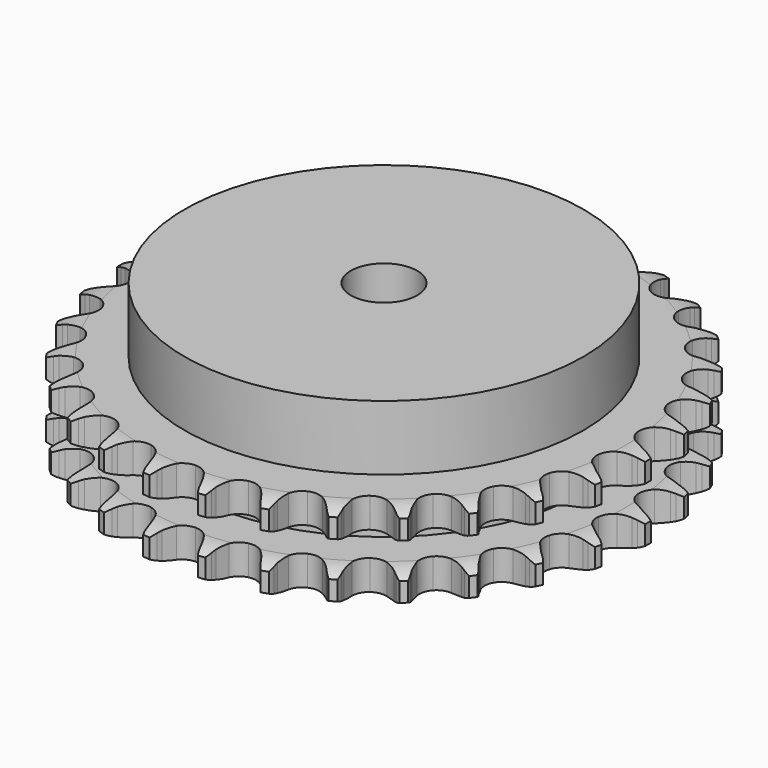
from build123d import *

# Parameters (mm, degrees)
PAD_DEPTH         = 25.5
SKETCH001_R       = 60
PAD001_DEPTH      = 45
SKETCH002_R       = 10
POCKET_DEPTH      = 0.001
POCKET_DEPTH_BACK = 45.001


with BuildPart() as part:
    # Sprocket → Pad (new body)
    with BuildSketch(Plane.XY):
        with BuildLine():
            ThreePointArc((-8.457976, 80.472268), (-7.258124, 79.052161), (-6.405169, 77.400249))
            Line((-6.405169, 77.400249), (-5.909738, 76.100573))
            ThreePointArc((-5.909738, 76.100573), (-5.123685, 74.407167), (-4.107782, 72.840819))
            ThreePointArc((-4.107782, 72.840819), (-2.295018, 71.33316), (0, 70.792755))
            ThreePointArc((0, 70.792755), (2.295018, 71.33316), (4.107782, 72.840819))
            ThreePointArc((4.107782, 72.840819), (5.123685, 74.407167), (5.909738, 76.100573))
            Line((5.909738, 76.100573), (6.405169, 77.400249))
            ThreePointArc((6.405169, 77.400249), (7.258124, 79.052161), (8.457976, 80.472268))
            ThreePointArc((8.457976, 80.472268), (9.336351, 78.833731), (9.827215, 77.040577))
            Line((9.827215, 77.040577), (10.041603, 75.666296))
            ThreePointArc((10.041603, 75.666296), (10.4584, 73.846465), (11.126441, 72.103128))
            ThreePointArc((11.126441, 72.103128), (12.586131, 70.25152), (14.718641, 69.245763))
            ThreePointArc((14.718641, 69.245763), (17.075865, 69.297198), (19.162475, 70.395017))
            Line((19.162475, 70.395017), (21.602794, 73.208889))
            ThreePointArc((21.602794, 73.208889), (21.964891, 73.802919), (22.357618, 74.377158))
            ThreePointArc((22.357618, 74.377158), (23.535385, 75.815633), (25.004274, 76.955243))
            ThreePointArc((25.004274, 76.955243), (25.522784, 75.169888), (25.630104, 73.313863))
            Line((25.630104, 73.313863), (25.554078, 71.925039))
            ThreePointArc((25.554078, 71.925039), (25.583402, 70.058319), (25.874385, 68.214185))
            ThreePointArc((25.874385, 68.214185), (26.917206, 66.099552), (28.794007, 64.672399))
            ThreePointArc((28.794007, 64.672399), (31.110414, 64.232616), (33.379676, 64.872614))
            Line((33.379676, 64.872614), (36.351705, 67.117626))
            ThreePointArc((36.351705, 67.117626), (36.829395, 67.62339), (37.332931, 68.103429))
            ThreePointArc((37.332931, 68.103429), (38.784037, 69.265598), (40.457766, 70.074906))
            ThreePointArc((40.457766, 70.074906), (40.593748, 68.22076), (40.312834, 66.382981))
            Line((40.312834, 66.382981), (39.949716, 65.040313))
            ThreePointArc((39.949716, 65.040313), (39.590287, 63.208289), (39.491494, 61.343954))
            ThreePointArc((39.491494, 61.343954), (40.07187, 59.058716), (41.610937, 57.272542))
            ThreePointArc((41.610937, 57.272542), (43.785288, 56.36076), (46.138024, 56.514967))
            Line((46.138024, 56.514967), (49.511872, 58.093))
            ThreePointArc((49.511872, 58.093), (50.084278, 58.488395), (50.676616, 58.853253))
            ThreePointArc((50.676616, 58.853253), (52.33764, 59.688323), (54.143059, 60.131958))
            ThreePointArc((54.143059, 60.131958), (53.890571, 58.290058), (53.233699, 56.550844))
            Line((53.233699, 56.550844), (52.59936, 55.313013))
            ThreePointArc((52.59936, 55.313013), (51.866887, 53.595752), (51.382635, 51.792698))
            ThreePointArc((51.382635, 51.792698), (51.475201, 49.436732), (52.609269, 47.369599))
            ThreePointArc((52.609269, 47.369599), (54.546536, 46.025669), (56.87992, 45.687345))
            Line((56.87992, 45.687345), (60.508133, 46.529431))
            ThreePointArc((60.508133, 46.529431), (61.150237, 46.797177), (61.805489, 47.030907))
            ThreePointArc((61.805489, 47.030907), (63.603838, 47.502383), (65.46204, 47.560956))
            ThreePointArc((65.46204, 47.560956), (64.832118, 45.811801), (63.827997, 44.247164))
            Line((63.827997, 44.247164), (62.95016, 43.168269))
            ThreePointArc((62.95016, 43.168269), (61.876654, 41.640824), (61.028109, 39.977853))
            ThreePointArc((61.028109, 39.977853), (60.628819, 37.654124), (61.308324, 35.396377))
            ThreePointArc((61.308324, 35.396377), (62.923838, 33.679036), (65.135891, 32.862966))
            Line((65.135891, 32.862966), (68.859898, 32.932303))
            ThreePointArc((68.859898, 32.932303), (69.543638, 33.060697), (70.233166, 33.153085))
            ThreePointArc((70.233166, 33.153085), (72.090242, 33.24036), (73.920016, 32.911312))
            ThreePointArc((73.920016, 32.911312), (72.940189, 31.331348), (71.632705, 30.00967))
            Line((71.632705, 30.00967), (70.549736, 29.136865))
            ThreePointArc((70.549736, 29.136865), (69.182115, 27.865993), (68.006361, 26.415784))
            ThreePointArc((68.006361, 26.415784), (67.132667, 24.225851), (67.327911, 21.876164))
            ThreePointArc((67.327911, 21.876164), (68.551066, 19.860466), (70.54511, 18.602318))
            Line((70.54511, 18.602318), (74.202155, 17.895876))
            ThreePointArc((74.202155, 17.895876), (74.897648, 17.879306), (75.591317, 17.826314))
            ThreePointArc((75.591317, 17.826314), (77.425957, 17.525575), (79.147333, 16.823285))
            ThreePointArc((79.147333, 16.823285), (77.860425, 15.481565), (76.30672, 14.46061))
            Line((76.30672, 14.46061), (75.06595, 13.832039))
            ThreePointArc((75.06595, 13.832039), (73.463985, 12.873283), (72.012409, 11.699218))
            ThreePointArc((72.012409, 11.699218), (70.702494, 9.738792), (70.404944, 7.399858))
            ThreePointArc((70.404944, 7.399858), (71.182284, 5.173899), (72.87117, 3.52866))
            Line((72.87117, 3.52866), (76.301421, 2.077313))
            ThreePointArc((76.301421, 2.077313), (76.978271, 1.916504), (77.645765, 1.720448))
            ThreePointArc((77.645765, 1.720448), (79.377786, 1.044837), (80.915531, 0))
            ThreePointArc((80.915531, 0), (79.377786, -1.044837), (77.645765, -1.720448))
            Line((77.645765, -1.720448), (76.301421, -2.077313))
            ThreePointArc((76.301421, -2.077313), (74.535127, -2.68205), (72.87117, -3.52866))
            ThreePointArc((72.87117, -3.52866), (71.182284, -5.173899), (70.404944, -7.399858))
            ThreePointArc((70.404944, -7.399858), (70.702494, -9.738792), (72.012409, -11.699218))
            Line((72.012409, -11.699218), (75.06595, -13.832039))
            ThreePointArc((75.06595, -13.832039), (75.694575, -14.130059), (76.30672, -14.46061))
            ThreePointArc((76.30672, -14.46061), (77.860425, -15.481565), (79.147333, -16.823285))
            ThreePointArc((79.147333, -16.823285), (77.425957, -17.525575), (75.591317, -17.826314))
            Line((75.591317, -17.826314), (74.202155, -17.895876))
            ThreePointArc((74.202155, -17.895876), (72.348726, -18.120165), (70.54511, -18.602318))
            ThreePointArc((70.54511, -18.602318), (68.551066, -19.860466), (67.327911, -21.876164))
            ThreePointArc((67.327911, -21.876164), (67.132667, -24.225851), (68.006361, -26.415784))
            Line((68.006361, -26.415784), (70.549736, -29.136865))
            ThreePointArc((70.549736, -29.136865), (71.102662, -29.55907), (71.632705, -30.00967))
            ThreePointArc((71.632705, -30.00967), (72.940189, -31.331348), (73.920016, -32.911312))
            ThreePointArc((73.920016, -32.911312), (72.090242, -33.24036), (70.233166, -33.153085))
            Line((70.233166, -33.153085), (68.859898, -32.932303))
            ThreePointArc((68.859898, -32.932303), (67.000339, -32.766342), (65.135891, -32.862966))
            ThreePointArc((65.135891, -32.862966), (62.923838, -33.679036), (61.308324, -35.396377))
            ThreePointArc((61.308324, -35.396377), (60.628819, -37.654124), (61.028109, -39.977853))
            Line((61.028109, -39.977853), (62.95016, -43.168269))
            ThreePointArc((62.95016, -43.168269), (63.403222, -43.696209), (63.827997, -44.247164))
            ThreePointArc((63.827997, -44.247164), (64.832118, -45.811801), (65.46204, -47.560956))
            ThreePointArc((65.46204, -47.560956), (63.603838, -47.502383), (61.805489, -47.030907))
            Line((61.805489, -47.030907), (60.508133, -46.529431))
            ThreePointArc((60.508133, -46.529431), (58.723715, -45.980473), (56.87992, -45.687345))
            ThreePointArc((56.87992, -45.687345), (54.546536, -46.025669), (52.609269, -47.369599))
            ThreePointArc((52.609269, -47.369599), (51.475201, -49.436732), (51.382635, -51.792698))
            Line((51.382635, -51.792698), (52.59936, -55.313013))
            ThreePointArc((52.59936, -55.313013), (52.932757, -55.923613), (53.233699, -56.550844))
            ThreePointArc((53.233699, -56.550844), (53.890571, -58.290058), (54.143059, -60.131958))
            ThreePointArc((54.143059, -60.131958), (52.33764, -59.688323), (50.676616, -58.853253))
            Line((50.676616, -58.853253), (49.511872, -58.093))
            ThreePointArc((49.511872, -58.093), (47.880583, -57.185036), (46.138024, -56.514967))
            ThreePointArc((46.138024, -56.514967), (43.785288, -56.36076), (41.610937, -57.272542))
            ThreePointArc((41.610937, -57.272542), (40.07187, -59.058716), (39.491494, -61.343954))
            Line((39.491494, -61.343954), (39.949716, -65.040313))
            ThreePointArc((39.949716, -65.040313), (40.148877, -65.706887), (40.312834, -66.382981))
            ThreePointArc((40.312834, -66.382981), (40.593748, -68.22076), (40.457766, -70.074906))
            ThreePointArc((40.457766, -70.074906), (38.784037, -69.265598), (37.332931, -68.103429))
            Line((37.332931, -68.103429), (36.351705, -67.117626))
            ThreePointArc((36.351705, -67.117626), (34.94484, -65.890339), (33.379676, -64.872614))
            ThreePointArc((33.379676, -64.872614), (31.110414, -64.232616), (28.794007, -64.672399))
            ThreePointArc((28.794007, -64.672399), (26.917206, -66.099552), (25.874385, -68.214185))
            Line((25.874385, -68.214185), (25.554078, -71.925039))
            ThreePointArc((25.554078, -71.925039), (25.610297, -72.618454), (25.630104, -73.313863))
            ThreePointArc((25.630104, -73.313863), (25.522784, -75.169888), (25.004274, -76.955243))
            ThreePointArc((25.004274, -76.955243), (23.535385, -75.815633), (22.357618, -74.377158))
            Line((22.357618, -74.377158), (21.602794, -73.208889))
            ThreePointArc((21.602794, -73.208889), (20.48184, -71.715917), (19.162475, -70.395017))
            ThreePointArc((19.162475, -70.395017), (17.075865, -69.297198), (14.718641, -69.245763))
            ThreePointArc((14.718641, -69.245763), (12.586131, -70.25152), (11.126441, -72.103128))
            Line((11.126441, -72.103128), (10.041603, -75.666296))
            ThreePointArc((10.041603, -75.666296), (9.952425, -76.356247), (9.827215, -77.040577))
            ThreePointArc((9.827215, -77.040577), (9.336351, -78.833731), (8.457976, -80.472268))
            ThreePointArc((8.457976, -80.472268), (7.258124, -79.052161), (6.405169, -77.400249))
            Line((6.405169, -77.400249), (5.909738, -76.100573))
            ThreePointArc((5.909738, -76.100573), (5.123685, -74.407167), (4.107782, -72.840819))
            ThreePointArc((4.107782, -72.840819), (2.295018, -71.33316), (0, -70.792755))
            ThreePointArc((0, -70.792755), (-2.295018, -71.33316), (-4.107782, -72.840819))
            Line((-4.107782, -72.840819), (-5.909738, -76.100573))
            ThreePointArc((-5.909738, -76.100573), (-6.140415, -76.756906), (-6.405169, -77.400249))
            ThreePointArc((-6.405169, -77.400249), (-7.258124, -79.052161), (-8.457976, -80.472268))
            ThreePointArc((-8.457976, -80.472268), (-9.336351, -78.833731), (-9.827215, -77.040577))
            Line((-9.827215, -77.040577), (-10.041603, -75.666296))
            ThreePointArc((-10.041603, -75.666296), (-10.4584, -73.846465), (-11.126441, -72.103128))
            ThreePointArc((-11.126441, -72.103128), (-12.586131, -70.25152), (-14.718641, -69.245763))
            ThreePointArc((-14.718641, -69.245763), (-17.075865, -69.297198), (-19.162475, -70.395017))
            Line((-19.162475, -70.395017), (-21.602794, -73.208889))
            ThreePointArc((-21.602794, -73.208889), (-21.964891, -73.802919), (-22.357618, -74.377158))
            ThreePointArc((-22.357618, -74.377158), (-23.535385, -75.815633), (-25.004274, -76.955243))
            ThreePointArc((-25.004274, -76.955243), (-25.522784, -75.169888), (-25.630104, -73.313863))
            Line((-25.630104, -73.313863), (-25.554078, -71.925039))
            ThreePointArc((-25.554078, -71.925039), (-25.583402, -70.058319), (-25.874385, -68.214185))
            ThreePointArc((-25.874385, -68.214185), (-26.917206, -66.099552), (-28.794007, -64.672399))
            ThreePointArc((-28.794007, -64.672399), (-31.110414, -64.232616), (-33.379676, -64.872614))
            Line((-33.379676, -64.872614), (-36.351705, -67.117626))
            ThreePointArc((-36.351705, -67.117626), (-36.829395, -67.62339), (-37.332931, -68.103429))
            ThreePointArc((-37.332931, -68.103429), (-38.784037, -69.265598), (-40.457766, -70.074906))
            ThreePointArc((-40.457766, -70.074906), (-40.593748, -68.22076), (-40.312834, -66.382981))
            Line((-40.312834, -66.382981), (-39.949716, -65.040313))
            ThreePointArc((-39.949716, -65.040313), (-39.590287, -63.208289), (-39.491494, -61.343954))
            ThreePointArc((-39.491494, -61.343954), (-40.07187, -59.058716), (-41.610937, -57.272542))
            ThreePointArc((-41.610937, -57.272542), (-43.785288, -56.36076), (-46.138024, -56.514967))
            Line((-46.138024, -56.514967), (-49.511872, -58.093))
            ThreePointArc((-49.511872, -58.093), (-50.084278, -58.488395), (-50.676616, -58.853253))
            ThreePointArc((-50.676616, -58.853253), (-52.33764, -59.688323), (-54.143059, -60.131958))
            ThreePointArc((-54.143059, -60.131958), (-53.890571, -58.290058), (-53.233699, -56.550844))
            Line((-53.233699, -56.550844), (-52.59936, -55.313013))
            ThreePointArc((-52.59936, -55.313013), (-51.866887, -53.595752), (-51.382635, -51.792698))
            ThreePointArc((-51.382635, -51.792698), (-51.475201, -49.436732), (-52.609269, -47.369599))
            ThreePointArc((-52.609269, -47.369599), (-54.546536, -46.025669), (-56.87992, -45.687345))
            Line((-56.87992, -45.687345), (-60.508133, -46.529431))
            ThreePointArc((-60.508133, -46.529431), (-61.150237, -46.797177), (-61.805489, -47.030907))
            ThreePointArc((-61.805489, -47.030907), (-63.603838, -47.502383), (-65.46204, -47.560956))
            ThreePointArc((-65.46204, -47.560956), (-64.832118, -45.811801), (-63.827997, -44.247164))
            Line((-63.827997, -44.247164), (-62.95016, -43.168269))
            ThreePointArc((-62.95016, -43.168269), (-61.876654, -41.640824), (-61.028109, -39.977853))
            ThreePointArc((-61.028109, -39.977853), (-60.628819, -37.654124), (-61.308324, -35.396377))
            ThreePointArc((-61.308324, -35.396377), (-62.923838, -33.679036), (-65.135891, -32.862966))
            Line((-65.135891, -32.862966), (-68.859898, -32.932303))
            ThreePointArc((-68.859898, -32.932303), (-69.543638, -33.060697), (-70.233166, -33.153085))
            ThreePointArc((-70.233166, -33.153085), (-72.090242, -33.24036), (-73.920016, -32.911312))
            ThreePointArc((-73.920016, -32.911312), (-72.940189, -31.331348), (-71.632705, -30.00967))
            Line((-71.632705, -30.00967), (-70.549736, -29.136865))
            ThreePointArc((-70.549736, -29.136865), (-69.182115, -27.865993), (-68.006361, -26.415784))
            ThreePointArc((-68.006361, -26.415784), (-67.132667, -24.225851), (-67.327911, -21.876164))
            ThreePointArc((-67.327911, -21.876164), (-68.551066, -19.860466), (-70.54511, -18.602318))
            Line((-70.54511, -18.602318), (-74.202155, -17.895876))
            ThreePointArc((-74.202155, -17.895876), (-74.897648, -17.879306), (-75.591317, -17.826314))
            ThreePointArc((-75.591317, -17.826314), (-77.425957, -17.525575), (-79.147333, -16.823285))
            ThreePointArc((-79.147333, -16.823285), (-77.860425, -15.481565), (-76.30672, -14.46061))
            Line((-76.30672, -14.46061), (-75.06595, -13.832039))
            ThreePointArc((-75.06595, -13.832039), (-73.463985, -12.873283), (-72.012409, -11.699218))
            ThreePointArc((-72.012409, -11.699218), (-70.702494, -9.738792), (-70.404944, -7.399858))
            ThreePointArc((-70.404944, -7.399858), (-71.182284, -5.173899), (-72.87117, -3.52866))
            Line((-72.87117, -3.52866), (-76.301421, -2.077313))
            ThreePointArc((-76.301421, -2.077313), (-76.978271, -1.916504), (-77.645765, -1.720448))
            ThreePointArc((-77.645765, -1.720448), (-79.377786, -1.044837), (-80.915531, 0))
            ThreePointArc((-80.915531, 0), (-79.377786, 1.044837), (-77.645765, 1.720448))
            Line((-77.645765, 1.720448), (-76.301421, 2.077313))
            ThreePointArc((-76.301421, 2.077313), (-74.535127, 2.68205), (-72.87117, 3.52866))
            ThreePointArc((-72.87117, 3.52866), (-71.182284, 5.173899), (-70.404944, 7.399858))
            ThreePointArc((-70.404944, 7.399858), (-70.702494, 9.738792), (-72.012409, 11.699218))
            Line((-72.012409, 11.699218), (-75.06595, 13.832039))
            ThreePointArc((-75.06595, 13.832039), (-75.694575, 14.130059), (-76.30672, 14.46061))
            ThreePointArc((-76.30672, 14.46061), (-77.860425, 15.481565), (-79.147333, 16.823285))
            ThreePointArc((-79.147333, 16.823285), (-77.425957, 17.525575), (-75.591317, 17.826314))
            Line((-75.591317, 17.826314), (-74.202155, 17.895876))
            ThreePointArc((-74.202155, 17.895876), (-72.348726, 18.120165), (-70.54511, 18.602318))
            ThreePointArc((-70.54511, 18.602318), (-68.551066, 19.860466), (-67.327911, 21.876164))
            ThreePointArc((-67.327911, 21.876164), (-67.132667, 24.225851), (-68.006361, 26.415784))
            Line((-68.006361, 26.415784), (-70.549736, 29.136865))
            ThreePointArc((-70.549736, 29.136865), (-71.102662, 29.55907), (-71.632705, 30.00967))
            ThreePointArc((-71.632705, 30.00967), (-72.940189, 31.331348), (-73.920016, 32.911312))
            ThreePointArc((-73.920016, 32.911312), (-72.090242, 33.24036), (-70.233166, 33.153085))
            Line((-70.233166, 33.153085), (-68.859898, 32.932303))
            ThreePointArc((-68.859898, 32.932303), (-67.000339, 32.766342), (-65.135891, 32.862966))
            ThreePointArc((-65.135891, 32.862966), (-62.923838, 33.679036), (-61.308324, 35.396377))
            ThreePointArc((-61.308324, 35.396377), (-60.628819, 37.654124), (-61.028109, 39.977853))
            Line((-61.028109, 39.977853), (-62.95016, 43.168269))
            ThreePointArc((-62.95016, 43.168269), (-63.403222, 43.696209), (-63.827997, 44.247164))
            ThreePointArc((-63.827997, 44.247164), (-64.832118, 45.811801), (-65.46204, 47.560956))
            ThreePointArc((-65.46204, 47.560956), (-63.603838, 47.502383), (-61.805489, 47.030907))
            Line((-61.805489, 47.030907), (-60.508133, 46.529431))
            ThreePointArc((-60.508133, 46.529431), (-58.723715, 45.980473), (-56.87992, 45.687345))
            ThreePointArc((-56.87992, 45.687345), (-54.546536, 46.025669), (-52.609269, 47.369599))
            ThreePointArc((-52.609269, 47.369599), (-51.475201, 49.436732), (-51.382635, 51.792698))
            Line((-51.382635, 51.792698), (-52.59936, 55.313013))
            ThreePointArc((-52.59936, 55.313013), (-52.932757, 55.923613), (-53.233699, 56.550844))
            ThreePointArc((-53.233699, 56.550844), (-53.890571, 58.290058), (-54.143059, 60.131958))
            ThreePointArc((-54.143059, 60.131958), (-52.33764, 59.688323), (-50.676616, 58.853253))
            Line((-50.676616, 58.853253), (-49.511872, 58.093))
            ThreePointArc((-49.511872, 58.093), (-47.880583, 57.185036), (-46.138024, 56.514967))
            ThreePointArc((-46.138024, 56.514967), (-43.785288, 56.36076), (-41.610937, 57.272542))
            ThreePointArc((-41.610937, 57.272542), (-40.07187, 59.058716), (-39.491494, 61.343954))
            Line((-39.491494, 61.343954), (-39.949716, 65.040313))
            ThreePointArc((-39.949716, 65.040313), (-40.148877, 65.706887), (-40.312834, 66.382981))
            ThreePointArc((-40.312834, 66.382981), (-40.593748, 68.22076), (-40.457766, 70.074906))
            ThreePointArc((-40.457766, 70.074906), (-38.784037, 69.265598), (-37.332931, 68.103429))
            Line((-37.332931, 68.103429), (-36.351705, 67.117626))
            ThreePointArc((-36.351705, 67.117626), (-34.94484, 65.890339), (-33.379676, 64.872614))
            ThreePointArc((-33.379676, 64.872614), (-31.110414, 64.232616), (-28.794007, 64.672399))
            ThreePointArc((-28.794007, 64.672399), (-26.917206, 66.099552), (-25.874385, 68.214185))
            Line((-25.874385, 68.214185), (-25.554078, 71.925039))
            ThreePointArc((-25.554078, 71.925039), (-25.610297, 72.618454), (-25.630104, 73.313863))
            ThreePointArc((-25.630104, 73.313863), (-25.522784, 75.169888), (-25.004274, 76.955243))
            ThreePointArc((-25.004274, 76.955243), (-23.535385, 75.815633), (-22.357618, 74.377158))
            Line((-22.357618, 74.377158), (-21.602794, 73.208889))
            ThreePointArc((-21.602794, 73.208889), (-20.48184, 71.715917), (-19.162475, 70.395017))
            ThreePointArc((-19.162475, 70.395017), (-17.075865, 69.297198), (-14.718641, 69.245763))
            ThreePointArc((-14.718641, 69.245763), (-12.586131, 70.25152), (-11.126441, 72.103128))
            Line((-11.126441, 72.103128), (-10.041603, 75.666296))
            ThreePointArc((-10.041603, 75.666296), (-9.952425, 76.356247), (-9.827215, 77.040577))
            ThreePointArc((-9.827215, 77.040577), (-9.336351, 78.833731), (-8.457976, 80.472268))
        make_face()
    extrude(amount=PAD_DEPTH)

    # Sketch → Groove (revolve, cut)
    with BuildSketch(Plane.XZ):
        with BuildLine():
            ThreePointArc((72.425762, 0), (76.00347, 0.405129), (79.4, 1.6))
            Line((79.4, 1.6), (79.4, 7.4))
            ThreePointArc((79.4, 7.4), (76.00347, 8.594871), (72.425762, 9))
            Line((60, 9), (72.425762, 9))
            Line((60, 16.5), (60, 9))
            Line((72.425762, 16.5), (60, 16.5))
            ThreePointArc((72.425762, 16.5), (76.00347, 16.905129), (79.4, 18.1))
            Line((79.4, 18.1), (79.4, 23.9))
            ThreePointArc((79.4, 23.9), (76.00347, 25.094871), (72.425762, 25.5))
            Line((72.425762, 25.5), (82.425762, 25.5))
            Line((82.425762, 25.5), (82.425762, 0))
            Line((72.425762, 0), (82.425762, 0))
        make_face()
    revolve(axis=Axis((0, 0, 0), (0, 0, 1)), mode=Mode.SUBTRACT)

    # Sketch001 → Pad001 (join)
    with BuildSketch(Plane.XY):
        Circle(SKETCH001_R)
    extrude(amount=PAD001_DEPTH)

    # Sketch002 → Pocket (cut, two sides)
    with BuildSketch(Plane.XY) as pocket_sk:
        Circle(SKETCH002_R)
    extrude(amount=-POCKET_DEPTH, mode=Mode.SUBTRACT)
    extrude(pocket_sk.sketch, amount=POCKET_DEPTH_BACK, mode=Mode.SUBTRACT)


solid = part.part
